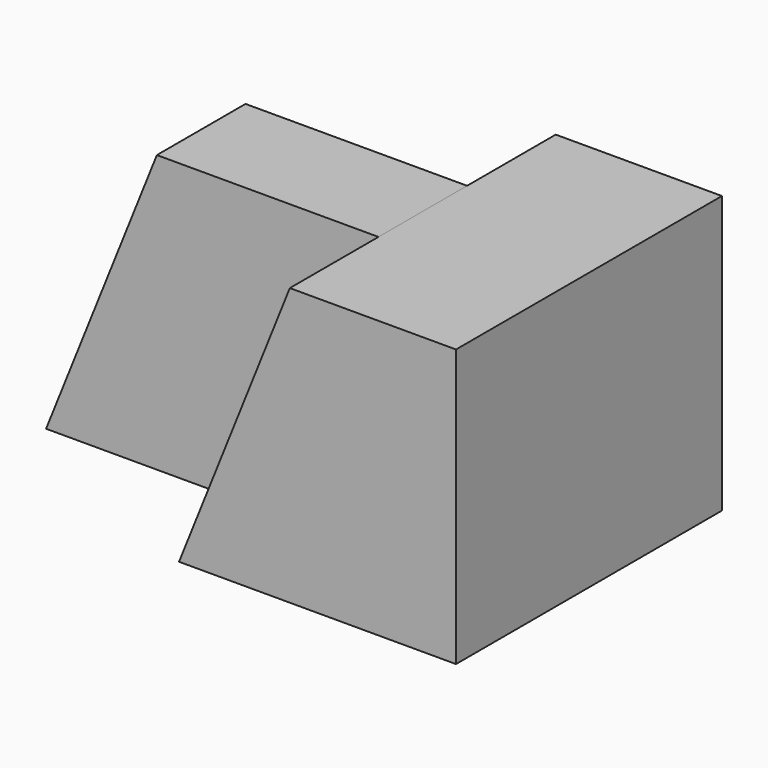
from build123d import *

# Parameters (mm, degrees)
F0_W     = 19.05
F0_H     = 31.75
F1_DEPTH = 38.1
F3_DEPTH = 12.7
F5_DEPTH = 12.7
F6_W     = 25.4
F6_H     = 12.7
F7_DEPTH = 31.75
F9_DEPTH = 12.7


with BuildPart() as f1:
    # F0 (on Front) → F1 (new body)
    with BuildSketch(Plane.XZ):
        with Locations((-32.806787, 25.206513)):
            Rectangle(F0_W, F0_H)
    extrude(amount=F1_DEPTH)

    # F4 (on face) → F5 (join)
    with BuildSketch(Plane.XZ.offset(38.1)):
        Polygon((-42.331787, 9.331513), (-42.331787, 41.081513), (-55.031787, 9.331513), align=None)
    extrude(amount=-F5_DEPTH)


with BuildPart() as f3:
    # F2 (on face) → F3 (new body)
    with BuildSketch(Plane(origin=(0, 0, 0), x_dir=(-1, 0, 0), z_dir=(0, 1, 0))):
        Polygon((42.331787, 41.081513), (42.331787, 9.331513), (55.031787, 9.331513), align=None)
    extrude(amount=-F3_DEPTH)


with BuildPart() as f7:
    # F6 (on face) → F7 (new body)
    with BuildSketch(Plane.XY.offset(41.081513)):
        with Locations((-55.031787, -19.05)):
            Rectangle(F6_W, F6_H)
    extrude(amount=-F7_DEPTH)

    # F8 (on face) → F9 (join)
    with BuildSketch(Plane(origin=(0, -12.7, 0), x_dir=(-1, 0, 0), z_dir=(0, 1, 0))):
        Polygon((80.431787, 9.331513), (67.731787, 41.081513), (67.731787, 9.331513), align=None)
    extrude(amount=-F9_DEPTH)


solid = Compound([f1.part, f3.part, f7.part])
